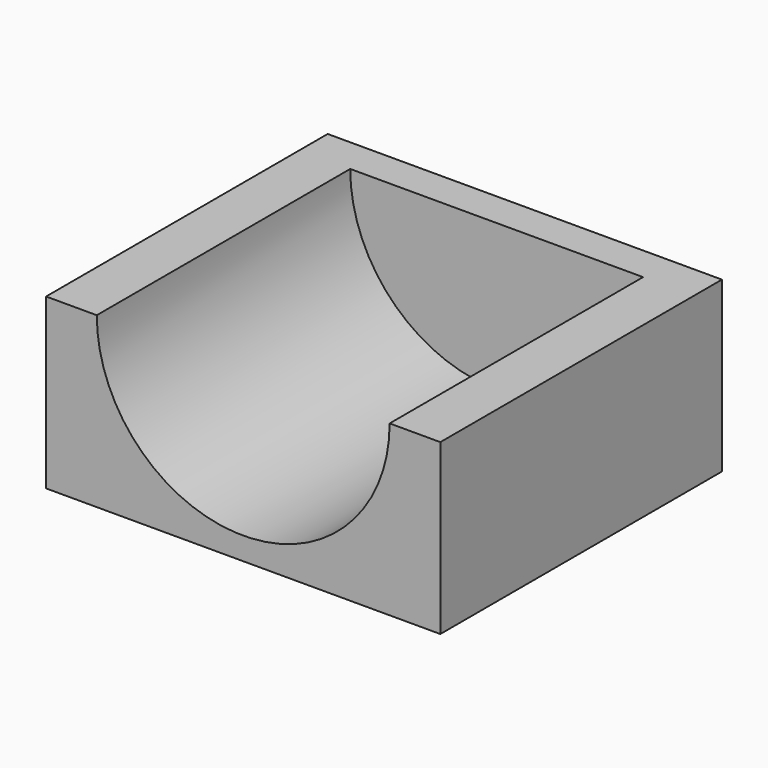
from build123d import *

# Parameters (mm, degrees)
F0_W     = 35.56
F0_H     = 31.75
F1_DEPTH = 15.24
F3_DEPTH = 28.575


with BuildPart() as f1:
    # F0 (on Top) → F1 (new body)
    with BuildSketch(Plane.XY):
        Rectangle(F0_W, F0_H)
    extrude(amount=F1_DEPTH)

    # F2 (on face) → F3 (cut)
    with BuildSketch(Plane.XZ.offset(15.875)):
        with BuildLine():
            ThreePointArc((-13.208, 15.24), (0, 2.032), (13.208, 15.24))
            Line((13.208, 15.24), (-13.208, 15.24))
        make_face()
    extrude(amount=-F3_DEPTH, mode=Mode.SUBTRACT)


solid = f1.part
